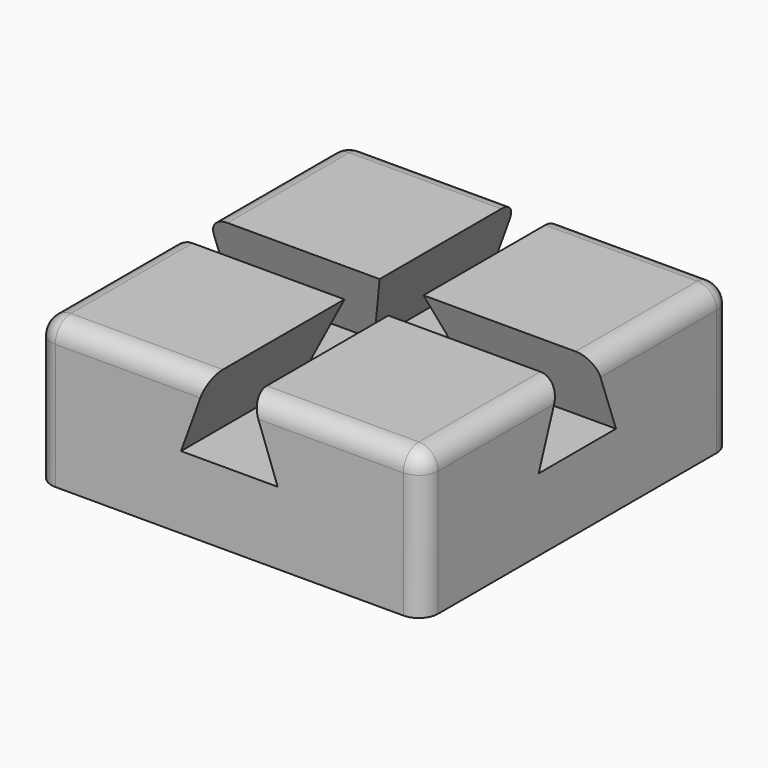
from build123d import *

# Parameters (mm, degrees)
F0_W     = 101.6
F0_H     = 101.6
F1_DEPTH = 38.1
F3_DEPTH = 101.601
F5_DEPTH = 101.601
F6_R     = 5.08


with BuildPart() as f1:
    # F0 (on Top) → F1 (new body)
    with BuildSketch(Plane.XY):
        with Locations((4.577692, -1.507951)):
            Rectangle(F0_W, F0_H)
    extrude(amount=F1_DEPTH)

    # F2 (on face) → F3 (cut, through all)
    with BuildSketch(Plane.XZ.offset(52.307951)):
        Polygon((10.344626, 38.1), (-1.188108, 38.1), (-8.121741, 19.05), (17.278259, 19.05), align=None)
    extrude(amount=-F3_DEPTH, mode=Mode.SUBTRACT)

    # F4 (on face) → F5 (cut, through all)
    with BuildSketch(Plane(origin=(-46.222308, 0, 0), x_dir=(0, -1, 0), z_dir=(-1, 0, 0))):
        Polygon((7.274885, 38.1), (-4.257849, 38.1), (-11.191482, 19.05), (14.208518, 19.05), align=None)
    extrude(amount=-F5_DEPTH, mode=Mode.SUBTRACT)

    # F6
    f6_edges = [f1.edges().sort_by_distance(p)[0] for p in [
        (32.861159, -52.307951, 38.1),
        (-23.705208, -52.307951, 38.1),
        (-46.222308, -29.791418, 38.1),
        (-46.222308, 26.774949, 38.1),
        (55.377692, 26.774949, 38.1),
        (55.377692, -29.791418, 38.1),
        (-23.705208, 49.292049, 38.1),
        (32.861159, 49.292049, 38.1),
        (-46.222308, -52.307951, 19.05),
        (55.377692, -52.307951, 19.05),
        (-46.222308, 49.292049, 19.05),
        (55.377692, 49.292049, 19.05),
    ]]
    fillet(f6_edges, radius=F6_R)


solid = f1.part
